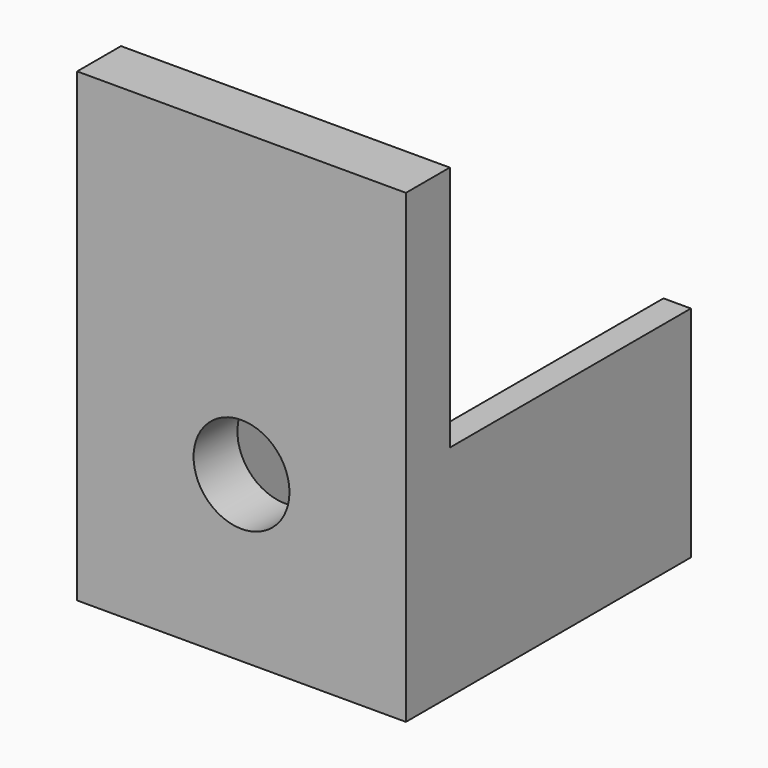
from build123d import *

# Parameters (mm, degrees)
F0_W     = 76.2
F0_H     = 107.95
F0_R     = 11.1125
F1_DEPTH = 12.7
F2_W     = 69.85
F2_H     = 50.8
F3_DEPTH = 6.35
F4_START = -69.85
F4_DEPTH = 6.35


with BuildPart() as f1:
    # F0 (on Front) → F1 (new body)
    with BuildSketch(Plane.XZ):
        Rectangle(F0_W, F0_H)
        with Locations((0, -15.875)):
            Circle(F0_R, mode=Mode.SUBTRACT)
    extrude(amount=F1_DEPTH)

    # F2 (on face) → F3 (join)
    with BuildSketch(Plane.YZ.offset(38.1)):
        with Locations((34.925, -28.575)):
            Rectangle(F2_W, F2_H)
    extrude(amount=-F3_DEPTH)

    # F2 (on face) → F4 (join)
    with BuildSketch(Plane.YZ.offset(38.1).offset(F4_START)):
        with Locations((34.925, -28.575)):
            Rectangle(F2_W, F2_H)
    extrude(amount=-F4_DEPTH)


solid = f1.part
